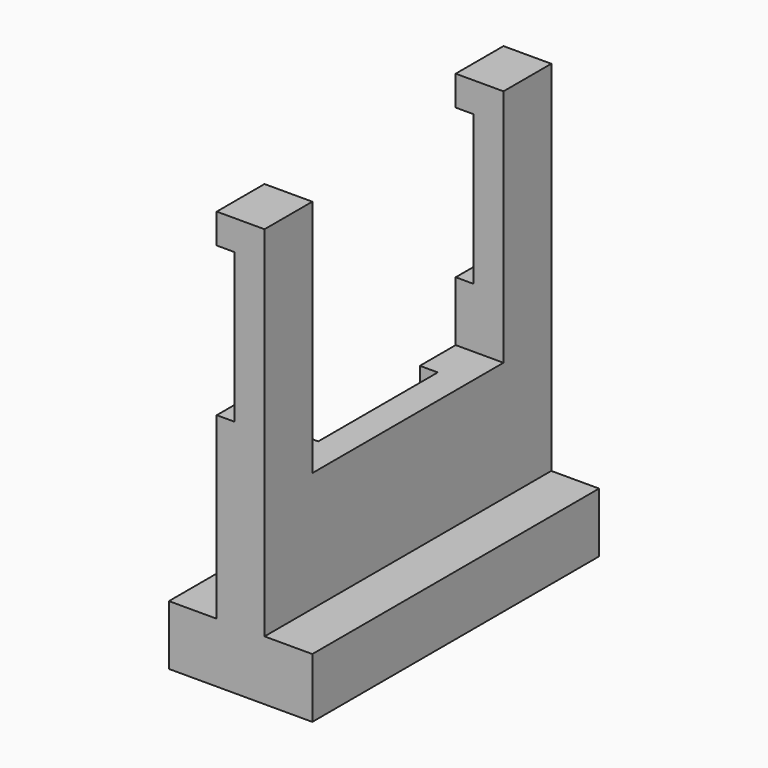
from build123d import *

# Parameters (mm, degrees)
F0_W     = 60
F0_H     = 10
F1_DEPTH = 8
F2_DEPTH = 8
F3_W     = 10
F3_H     = 25
F3_W_2   = 25
F3_H_2   = 10
F4_DEPTH = 3
F5_DEPTH = 16


with BuildPart() as f1:
    # F0 (on Right) → F1 (new body)
    with BuildSketch(Plane.YZ):
        with Locations((0, 5)):
            Rectangle(F0_W, F0_H)
        Polygon((-30, 70), (-30, 10), (30, 10), (30, 70), (20, 70), (20, 30), (-20, 30), (-20, 70), align=None)
    extrude(amount=-F1_DEPTH)

    # F0 (on Right) → F2 (join)
    with BuildSketch(Plane.YZ):
        with Locations((0, 5)):
            Rectangle(F0_W, F0_H)
    extrude(amount=F2_DEPTH)

    # F3 (on face) → F4 (cut)
    with BuildSketch(Plane(origin=(-8, 0, 0), x_dir=(0, -1, 0), z_dir=(-1, 0, 0))):
        with Locations((-25, 52.5)):
            Rectangle(F3_W, F3_H)
        with Locations((25, 52.5)):
            Rectangle(F3_W, F3_H)
        with Locations((0, 25)):
            Rectangle(F3_W_2, F3_H_2)
    extrude(amount=-F4_DEPTH, mode=Mode.SUBTRACT)

    # F0 (on Right) → F5 (join)
    with BuildSketch(Plane.YZ):
        with Locations((0, 5)):
            Rectangle(F0_W, F0_H)
    extrude(amount=-F5_DEPTH)


solid = f1.part
